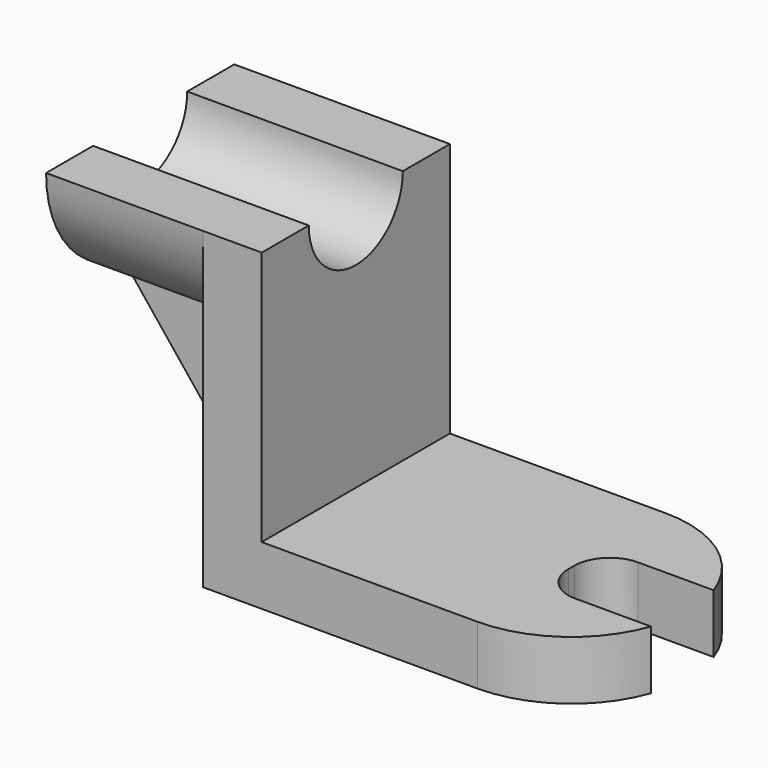
from build123d import *

# Parameters (mm, degrees)
F1_DEPTH      = 15
F2_W          = 15
F2_H          = 65
F3_DEPTH      = 30
F3_DEPTH_BACK = 30
F5_DEPTH      = 40
F6_DEPTH      = 25
F8_DEPTH      = 5
F8_DEPTH_BACK = 5
F9_R          = 9


with BuildPart() as f1:
    # F0 (on Top) → F1 (new body)
    with BuildSketch(Plane.XY):
        Polygon((35, 10), (35, 30), (-35, 30), (-35, -30), (35, -30), (35, -10), align=None)
        with BuildLine():
            ThreePointArc((63.2842712475, 10), (52.3205080757, 24.4948974278), (35, 30))
            Line((35, 30), (35, 10))
            Line((35, 10), (63.2842712475, 10))
        make_face()
        with BuildLine():
            Line((63.2842712475, -10), (35, -10))
            Line((35, -10), (35, -30))
            ThreePointArc((35, -30), (52.3205080757, -24.4948974278), (63.2842712475, -10))
        make_face()
    extrude(amount=F1_DEPTH)

    # F2 (on Front) → F3 (join, two sides)
    with BuildSketch(Plane.XZ) as f3_sk:
        Polygon((-35, 15), (-35, 0), (35, 0), (35, 15), (-20, 15), align=None)
        with Locations((-27.5, 47.5)):
            Rectangle(F2_W, F2_H)
    extrude(amount=F3_DEPTH)
    extrude(f3_sk.sketch, amount=-F3_DEPTH_BACK)

    # F4 (on face) → F5 (join)
    with BuildSketch(Plane(origin=(-35, 0, 0), x_dir=(0, -1, 0), z_dir=(-1, 0, 0))):
        with BuildLine():
            ThreePointArc((15, 80), (0, 65), (-15, 80))
            Line((-15, 80), (-30, 80))
            ThreePointArc((-30, 80), (0, 50), (30, 80))
            Line((30, 80), (15, 80))
        make_face()
    extrude(amount=F5_DEPTH)

    # F6 (cut): a face of the model
    f6_faces = [f1.faces().sort_by_distance(p)[0] for p in [
        (-35, 0, 73.6338022763),
    ]]
    extrude(f6_faces, amount=-F6_DEPTH, mode=Mode.SUBTRACT)

    # F9
    f9_edges = [f1.edges().sort_by_distance(p)[0] for p in [
        (35, 10, 7.5),
        (35, -10, 7.5),
    ]]
    fillet(f9_edges, radius=F9_R)


with BuildPart() as f8:
    # F7 (on Front) → F8 (new body, two sides)
    with BuildSketch(Plane.XZ) as f8_sk:
        Polygon((-35, 0), (-35, 50), (-75, 50), align=None)
    extrude(amount=F8_DEPTH)
    extrude(f8_sk.sketch, amount=-F8_DEPTH_BACK)


solid = Compound([f1.part, f8.part])
